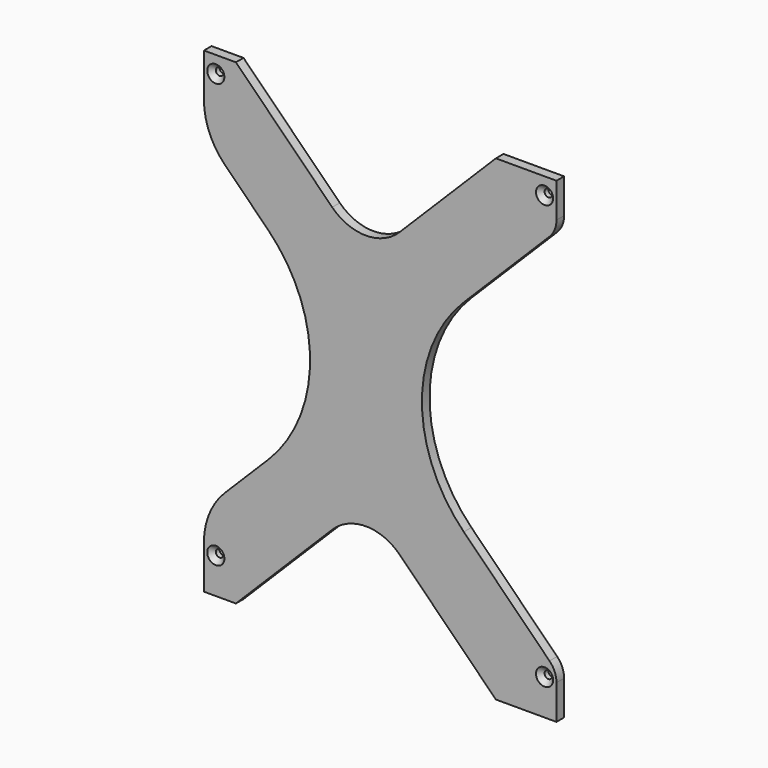
from build123d import *

# Parameters (mm, degrees)
BOX033_W               = 80
BOX033_H               = 4
BOX033_DEPTH           = 80
BOX033_PLACEMENT_ANGLE = 45
FILLET130_R            = 20
BOX035_W               = 80
BOX035_H               = 4
BOX035_DEPTH           = 80
BOX035_PLACEMENT_ANGLE = 45
FILLET131_R            = 20
BOX036_W               = 120
BOX036_H               = 4
BOX036_DEPTH           = 120
BOX036_PLACEMENT_ANGLE = 45
FILLET133_R            = 60
CYLINDER090_R          = 1.6
CYLINDER090_DEPTH      = 25
CYLINDER091_R          = 1.6
CYLINDER091_DEPTH      = 25
CYLINDER092_R          = 1.6
CYLINDER092_DEPTH      = 25
CYLINDER089_R          = 1.6
CYLINDER089_DEPTH      = 25
BOX034_W               = 100
BOX034_H               = 4
BOX034_DEPTH           = 100
BOX034_PLACEMENT_ANGLE = 45
FILLET132_R            = 60
BOX032_W               = 148
BOX032_H               = 4
BOX032_DEPTH           = 200
FILLET134_R            = 30
FILLET135_R            = 10
CHAMFER035_SIZE        = 2


with BuildPart() as fillet131:
    # Box033 → Box033 (new body)
    with BuildSketch(Plane.XY):
        with Locations((40, 2)):
            Rectangle(BOX033_W, BOX033_H)
    extrude(amount=BOX033_DEPTH)


with BuildPart() as fillet131_1:
    # Box033 placement: moved
    add(fillet131.part.moved(Location((-6.57, 0, 202))).rotate(Axis((-6.57, 0, 202), (0, 1, 0)), BOX033_PLACEMENT_ANGLE))

    # Fillet130
    fillet130_edges = [fillet131_1.edges().sort_by_distance(p)[0] for p in [
        (49.998542, 2, 145.431458),
    ]]
    fillet(fillet130_edges, radius=FILLET130_R)


with BuildPart() as fillet132:
    # Box035 → Box035 (new body)
    with BuildSketch(Plane.XY):
        with Locations((40, 2)):
            Rectangle(BOX035_W, BOX035_H)
    extrude(amount=BOX035_DEPTH)


with BuildPart() as fillet132_1:
    # Box035 placement: moved
    add(fillet132.part.moved(Location((-6.57, 0, -2))).rotate(Axis((-6.57, 0, -2), (0, 1, 0)), BOX035_PLACEMENT_ANGLE))

    # Fillet131
    fillet131_edges = [fillet132_1.edges().sort_by_distance(p)[0] for p in [
        (49.998542, 2, 54.568542),
    ]]
    fillet(fillet131_edges, radius=FILLET131_R)


with BuildPart() as fillet134:
    # Box036 → Box036 (new body)
    with BuildSketch(Plane.XY):
        with Locations((60, 2)):
            Rectangle(BOX036_W, BOX036_H)
    extrude(amount=BOX036_DEPTH)


with BuildPart() as fillet134_1:
    # Box036 placement: moved
    add(fillet134.part.moved(Location((48.67, 0, 100))).rotate(Axis((48.67, 0, 100), (0, 1, 0)), BOX036_PLACEMENT_ANGLE))

    # Fillet133
    fillet133_edges = [fillet134_1.edges().sort_by_distance(p)[0] for p in [
        (48.67, 2, 100),
    ]]
    fillet(fillet133_edges, radius=FILLET133_R)


with BuildPart() as obj1:
    # Cylinder090 → Cylinder090 (new body)
    with BuildSketch(Plane(origin=(125, -20, 15), x_dir=(1, 0, 0), z_dir=(0, 1, 0))):
        Circle(CYLINDER090_R)
    extrude(amount=CYLINDER090_DEPTH)


with BuildPart() as obj2:
    # Cylinder091 → Cylinder091 (new body)
    with BuildSketch(Plane(origin=(-13, -20, 193), x_dir=(1, 0, 0), z_dir=(0, 1, 0))):
        Circle(CYLINDER091_R)
    extrude(amount=CYLINDER091_DEPTH)


with BuildPart() as obj3:
    # Cylinder092 → Cylinder092 (new body)
    with BuildSketch(Plane(origin=(125, -20, 193), x_dir=(1, 0, 0), z_dir=(0, 1, 0))):
        Circle(CYLINDER092_R)
    extrude(amount=CYLINDER092_DEPTH)


with BuildPart() as obj4:
    # Cylinder089 → Cylinder089 (new body)
    with BuildSketch(Plane(origin=(-13, -20, 15), x_dir=(1, 0, 0), z_dir=(0, 1, 0))):
        Circle(CYLINDER089_R)
    extrude(amount=CYLINDER089_DEPTH)

    # Fusion055: union obj1, obj2, obj3
    add(obj1.part)
    add(obj2.part)
    add(obj3.part)


with BuildPart() as fusion056:
    # Box034 → Box034 (new body)
    with BuildSketch(Plane.XY):
        with Locations((50, 2)):
            Rectangle(BOX034_W, BOX034_H)
    extrude(amount=BOX034_DEPTH)


with BuildPart() as fusion056_1:
    # Box034 placement: moved
    add(fusion056.part.moved(Location((-90, 0, 100))).rotate(Axis((-90, 0, 100), (0, 1, 0)), BOX034_PLACEMENT_ANGLE))

    # Fillet132
    fillet132_edges = [fusion056_1.edges().sort_by_distance(p)[0] for p in [
        (51.421356, 2, 100),
    ]]
    fillet(fillet132_edges, radius=FILLET132_R)

    # Fusion056: union Fillet131, Fillet132, Fillet134, obj4
    add(fillet131_1.part)
    add(fillet132_1.part)
    add(fillet134_1.part)
    add(obj4.part)


with BuildPart() as support2:
    # Box032 → Box032 (new body)
    with BuildSketch(Plane(origin=(-18, 0, 0), x_dir=(1, 0, 0), z_dir=(0, 0, 1))):
        with Locations((74, 2)):
            Rectangle(BOX032_W, BOX032_H)
    extrude(amount=BOX032_DEPTH)

    # Cut017: cut Fusion056
    add(fusion056_1.part, mode=Mode.SUBTRACT)

    # Fillet134
    fillet134_edges = [support2.edges().sort_by_distance(p)[0] for p in [
        (-18, 2, 30.578644),
        (-18, 2, 169.421356),
    ]]
    fillet(fillet134_edges, radius=FILLET134_R)

    # Fillet135
    fillet135_edges = [support2.edges().sort_by_distance(p)[0] for p in [
        (130, 2, 181.33),
        (130, 2, 18.67),
    ]]
    fillet(fillet135_edges, radius=FILLET135_R)

    # Chamfer035
    chamfer035_edges = [support2.edges().sort_by_distance(p)[0] for p in [
        (-14.6, 0, 15),
        (-14.6, 0, 193),
        (123.4, 0, 15),
        (123.4, 0, 193),
    ]]
    chamfer(chamfer035_edges, length=CHAMFER035_SIZE)


solid = support2.part
